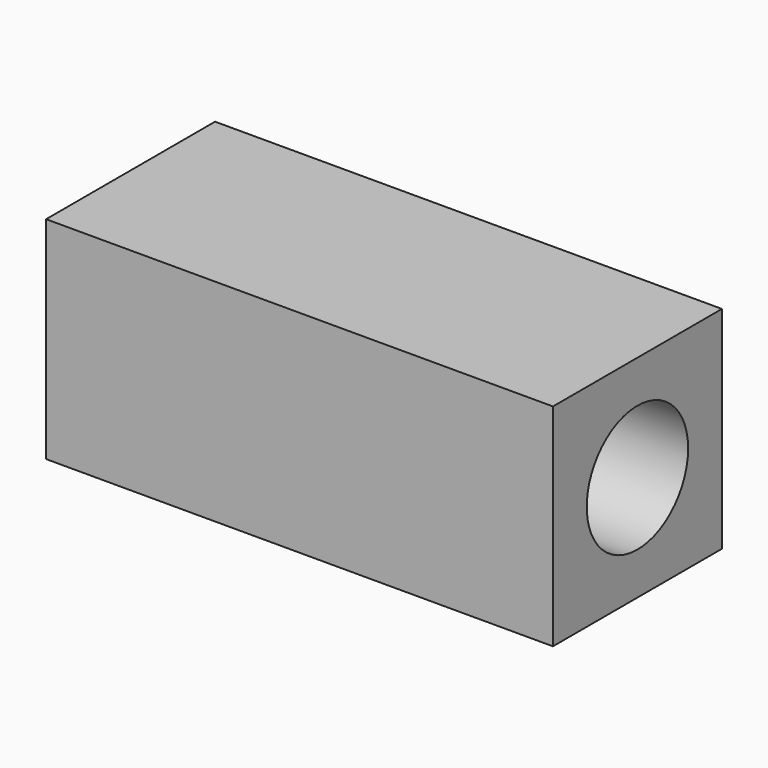
from build123d import *

# Parameters (mm, degrees)
F0_R     = 7.5
F1_DEPTH = 60


with BuildPart() as f1:
    # F0 (on Right) → F1 (new body)
    with BuildSketch(Plane.YZ):
        Polygon((0, 12.5), (0, 0), (0, -12.5), (25, -12.5), (25, 12.5), align=None)
        with Locations((12.5, 0)):
            Circle(F0_R, mode=Mode.SUBTRACT)
    extrude(amount=F1_DEPTH)


solid = f1.part
